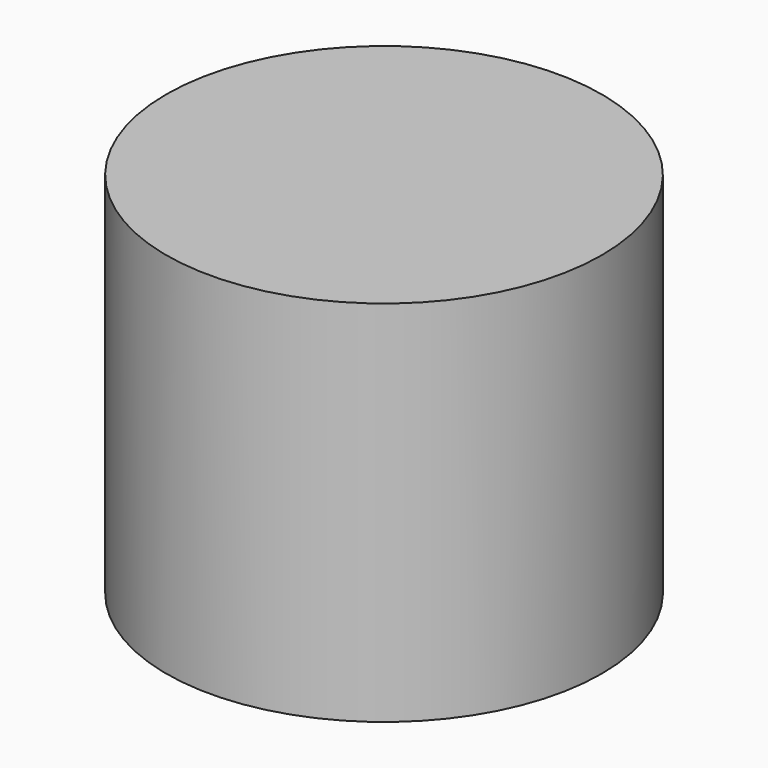
from build123d import *

# Parameters (mm, degrees)
F0_R     = 50.199898
F1_DEPTH = 3
F0_R_2   = 53.199898
F2_DEPTH = 90


with BuildPart() as f1:
    # F0 (on Top) → F1 (new body)
    with BuildSketch(Plane.XY):
        Circle(F0_R)
    extrude(amount=-F1_DEPTH)

    # F0 (on Top) → F2 (join)
    with BuildSketch(Plane.XY):
        Circle(F0_R_2)
        Circle(F0_R, mode=Mode.SUBTRACT)
    extrude(amount=-F2_DEPTH)


solid = f1.part
